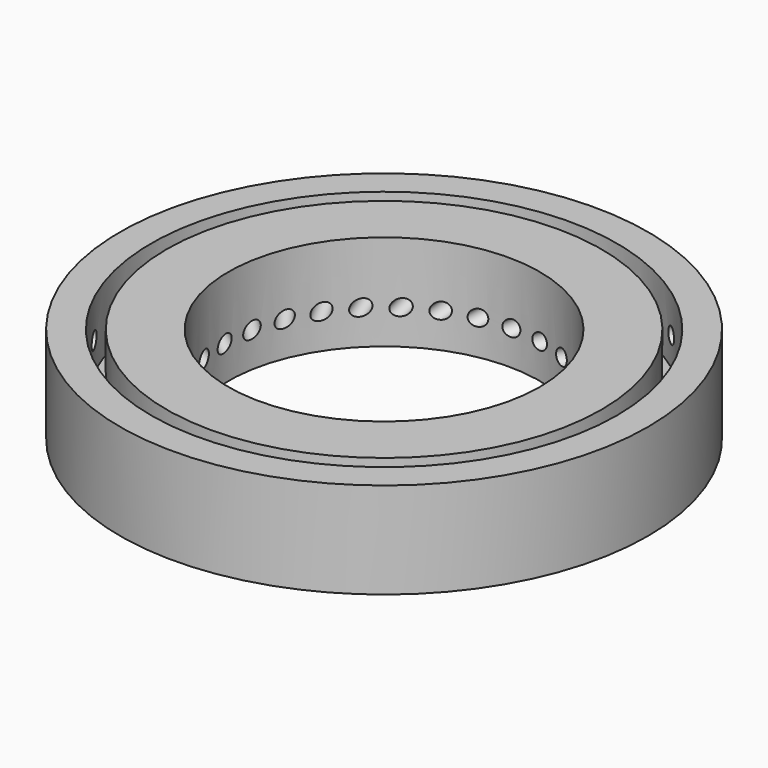
from build123d import *

# Parameters (mm, degrees)
F0_R      = 16.5
F1_DEPTH  = 7.9375
F2_R      = 10.033
F3_DEPTH  = 7.9375
F6_R      = 0.5
F7_DEPTH  = 25.4
F8_ANGLE  = 20
F10_ANGLE = 50
F11_ANGLE = 55
F12_COUNT = 31
F17_R     = 16.5
F17_R_2   = 10.033
F18_DEPTH = 1.7526
F19_R     = 15
F19_R_2   = 14
F20_DEPTH = 4.2545
F21_R     = 17
F21_R_2   = 16.5
F22_DEPTH = 6.1849


with BuildPart() as f1:
    # F0 (on Top) → F1 (new body)
    with BuildSketch(Plane.XY):
        Circle(F0_R)
    extrude(amount=F1_DEPTH)

    # F2 (on Top) → F3 (cut)
    with BuildSketch(Plane.XY):
        Circle(F2_R)
    extrude(amount=F3_DEPTH, mode=Mode.SUBTRACT)


with BuildPart() as f7:
    # F6 (on Right) → F7 (new body)
    with BuildSketch(Plane.YZ):
        with Locations((0, 54.0998391807)):
            Circle(F6_R)
    extrude(amount=F7_DEPTH)


with BuildPart() as f7_1:
    # F8: moved
    add(f7.part.rotate(Axis((0, 0, 71.6633871198), (0, 0, 1)), F8_ANGLE))


with BuildPart() as f7_2:
    # F9: moved
    add(f7_1.part.moved(Location((0, 0, -54.102))))


with BuildPart() as f7_3:
    # F10: moved
    add(f7_2.part.rotate(Axis((14.9283884093, 0, 0), (1, 0, 0)), F10_ANGLE))


with BuildPart() as f7_4:
    # F11: moved
    add(f7_3.part.rotate(Axis((0, -8.9068748057, 35.4871749878), (0, 0, 1)), F11_ANGLE))


with BuildPart() as f12_1:
    # F12: instance of F7
    add(f7_4.part.rotate(Axis((0, 0, 71.6633871198), (0, 0, 1)), 1 * 360 / F12_COUNT))


with BuildPart() as f12_2:
    # F12: instance of F7
    add(f7_4.part.rotate(Axis((0, 0, 71.6633871198), (0, 0, 1)), 2 * 360 / F12_COUNT))


with BuildPart() as f12_3:
    # F12: instance of F7
    add(f7_4.part.rotate(Axis((0, 0, 71.6633871198), (0, 0, 1)), 3 * 360 / F12_COUNT))


with BuildPart() as f12_4:
    # F12: instance of F7
    add(f7_4.part.rotate(Axis((0, 0, 71.6633871198), (0, 0, 1)), 4 * 360 / F12_COUNT))


with BuildPart() as f12_5:
    # F12: instance of F7
    add(f7_4.part.rotate(Axis((0, 0, 71.6633871198), (0, 0, 1)), 5 * 360 / F12_COUNT))


with BuildPart() as f12_6:
    # F12: instance of F7
    add(f7_4.part.rotate(Axis((0, 0, 71.6633871198), (0, 0, 1)), 6 * 360 / F12_COUNT))


with BuildPart() as f12_7:
    # F12: instance of F7
    add(f7_4.part.rotate(Axis((0, 0, 71.6633871198), (0, 0, 1)), 7 * 360 / F12_COUNT))


with BuildPart() as f12_8:
    # F12: instance of F7
    add(f7_4.part.rotate(Axis((0, 0, 71.6633871198), (0, 0, 1)), 8 * 360 / F12_COUNT))


with BuildPart() as f12_9:
    # F12: instance of F7
    add(f7_4.part.rotate(Axis((0, 0, 71.6633871198), (0, 0, 1)), 9 * 360 / F12_COUNT))


with BuildPart() as f12_10:
    # F12: instance of F7
    add(f7_4.part.rotate(Axis((0, 0, 71.6633871198), (0, 0, 1)), 10 * 360 / F12_COUNT))


with BuildPart() as f12_11:
    # F12: instance of F7
    add(f7_4.part.rotate(Axis((0, 0, 71.6633871198), (0, 0, 1)), 11 * 360 / F12_COUNT))


with BuildPart() as f12_12:
    # F12: instance of F7
    add(f7_4.part.rotate(Axis((0, 0, 71.6633871198), (0, 0, 1)), 12 * 360 / F12_COUNT))


with BuildPart() as f12_13:
    # F12: instance of F7
    add(f7_4.part.rotate(Axis((0, 0, 71.6633871198), (0, 0, 1)), 13 * 360 / F12_COUNT))


with BuildPart() as f12_14:
    # F12: instance of F7
    add(f7_4.part.rotate(Axis((0, 0, 71.6633871198), (0, 0, 1)), 14 * 360 / F12_COUNT))


with BuildPart() as f12_15:
    # F12: instance of F7
    add(f7_4.part.rotate(Axis((0, 0, 71.6633871198), (0, 0, 1)), 15 * 360 / F12_COUNT))


with BuildPart() as f12_16:
    # F12: instance of F7
    add(f7_4.part.rotate(Axis((0, 0, 71.6633871198), (0, 0, 1)), 16 * 360 / F12_COUNT))


with BuildPart() as f12_17:
    # F12: instance of F7
    add(f7_4.part.rotate(Axis((0, 0, 71.6633871198), (0, 0, 1)), 17 * 360 / F12_COUNT))


with BuildPart() as f12_18:
    # F12: instance of F7
    add(f7_4.part.rotate(Axis((0, 0, 71.6633871198), (0, 0, 1)), 18 * 360 / F12_COUNT))


with BuildPart() as f12_19:
    # F12: instance of F7
    add(f7_4.part.rotate(Axis((0, 0, 71.6633871198), (0, 0, 1)), 19 * 360 / F12_COUNT))


with BuildPart() as f12_20:
    # F12: instance of F7
    add(f7_4.part.rotate(Axis((0, 0, 71.6633871198), (0, 0, 1)), 20 * 360 / F12_COUNT))


with BuildPart() as f12_21:
    # F12: instance of F7
    add(f7_4.part.rotate(Axis((0, 0, 71.6633871198), (0, 0, 1)), 21 * 360 / F12_COUNT))


with BuildPart() as f12_22:
    # F12: instance of F7
    add(f7_4.part.rotate(Axis((0, 0, 71.6633871198), (0, 0, 1)), 22 * 360 / F12_COUNT))


with BuildPart() as f12_23:
    # F12: instance of F7
    add(f7_4.part.rotate(Axis((0, 0, 71.6633871198), (0, 0, 1)), 23 * 360 / F12_COUNT))


with BuildPart() as f12_24:
    # F12: instance of F7
    add(f7_4.part.rotate(Axis((0, 0, 71.6633871198), (0, 0, 1)), 24 * 360 / F12_COUNT))


with BuildPart() as f12_25:
    # F12: instance of F7
    add(f7_4.part.rotate(Axis((0, 0, 71.6633871198), (0, 0, 1)), 25 * 360 / F12_COUNT))


with BuildPart() as f12_26:
    # F12: instance of F7
    add(f7_4.part.rotate(Axis((0, 0, 71.6633871198), (0, 0, 1)), 26 * 360 / F12_COUNT))


with BuildPart() as f12_27:
    # F12: instance of F7
    add(f7_4.part.rotate(Axis((0, 0, 71.6633871198), (0, 0, 1)), 27 * 360 / F12_COUNT))


with BuildPart() as f12_28:
    # F12: instance of F7
    add(f7_4.part.rotate(Axis((0, 0, 71.6633871198), (0, 0, 1)), 28 * 360 / F12_COUNT))


with BuildPart() as f12_29:
    # F12: instance of F7
    add(f7_4.part.rotate(Axis((0, 0, 71.6633871198), (0, 0, 1)), 29 * 360 / F12_COUNT))


with BuildPart() as f12_30:
    # F12: instance of F7
    add(f7_4.part.rotate(Axis((0, 0, 71.6633871198), (0, 0, 1)), 30 * 360 / F12_COUNT))


with BuildPart() as f1_1:
    add(f1.part)

    # F13: cut F7, F12_14
    add(f7_4.part, mode=Mode.SUBTRACT)
    add(f12_14.part, mode=Mode.SUBTRACT)

    # F14: cut F12_30, F12_28, F12_26, F12_24, F12_22
    add(f12_30.part, mode=Mode.SUBTRACT)
    add(f12_28.part, mode=Mode.SUBTRACT)
    add(f12_26.part, mode=Mode.SUBTRACT)
    add(f12_24.part, mode=Mode.SUBTRACT)
    add(f12_22.part, mode=Mode.SUBTRACT)

    # F15: cut F12_20, F12_18, F12_16, F12_13, F12_11, F12_9, F12_7, F12_5, F12_3, F12_1
    add(f12_20.part, mode=Mode.SUBTRACT)
    add(f12_18.part, mode=Mode.SUBTRACT)
    add(f12_16.part, mode=Mode.SUBTRACT)
    add(f12_13.part, mode=Mode.SUBTRACT)
    add(f12_11.part, mode=Mode.SUBTRACT)
    add(f12_9.part, mode=Mode.SUBTRACT)
    add(f12_7.part, mode=Mode.SUBTRACT)
    add(f12_5.part, mode=Mode.SUBTRACT)
    add(f12_3.part, mode=Mode.SUBTRACT)
    add(f12_1.part, mode=Mode.SUBTRACT)

    # F16: cut F12_29, F12_27, F12_25, F12_23, F12_21, F12_19, F12_17, F12_15, F12_12, F12_10, F12_8, F12_6, F12_4, F12_2
    add(f12_29.part, mode=Mode.SUBTRACT)
    add(f12_27.part, mode=Mode.SUBTRACT)
    add(f12_25.part, mode=Mode.SUBTRACT)
    add(f12_23.part, mode=Mode.SUBTRACT)
    add(f12_21.part, mode=Mode.SUBTRACT)
    add(f12_19.part, mode=Mode.SUBTRACT)
    add(f12_17.part, mode=Mode.SUBTRACT)
    add(f12_15.part, mode=Mode.SUBTRACT)
    add(f12_12.part, mode=Mode.SUBTRACT)
    add(f12_10.part, mode=Mode.SUBTRACT)
    add(f12_8.part, mode=Mode.SUBTRACT)
    add(f12_6.part, mode=Mode.SUBTRACT)
    add(f12_4.part, mode=Mode.SUBTRACT)
    add(f12_2.part, mode=Mode.SUBTRACT)

    # F17 (on face) → F18 (cut)
    with BuildSketch(Plane(origin=(0, 0, 0), x_dir=(1, 0, 0), z_dir=(0, 0, -1))):
        Circle(F17_R)
        Circle(F17_R_2, mode=Mode.SUBTRACT)
    extrude(amount=-F18_DEPTH, mode=Mode.SUBTRACT)

    # F19 (on face) → F20 (cut)
    with BuildSketch(Plane.XY.offset(7.9375)):
        Circle(F19_R)
        Circle(F19_R_2, mode=Mode.SUBTRACT)
    extrude(amount=-F20_DEPTH, mode=Mode.SUBTRACT)

    # F21 (on face) → F22 (join, through all)
    with BuildSketch(Plane.XY.offset(7.9375)):
        Circle(F21_R)
        Circle(F21_R_2, mode=Mode.SUBTRACT)
    extrude(amount=-F22_DEPTH)


solid = f1_1.part
